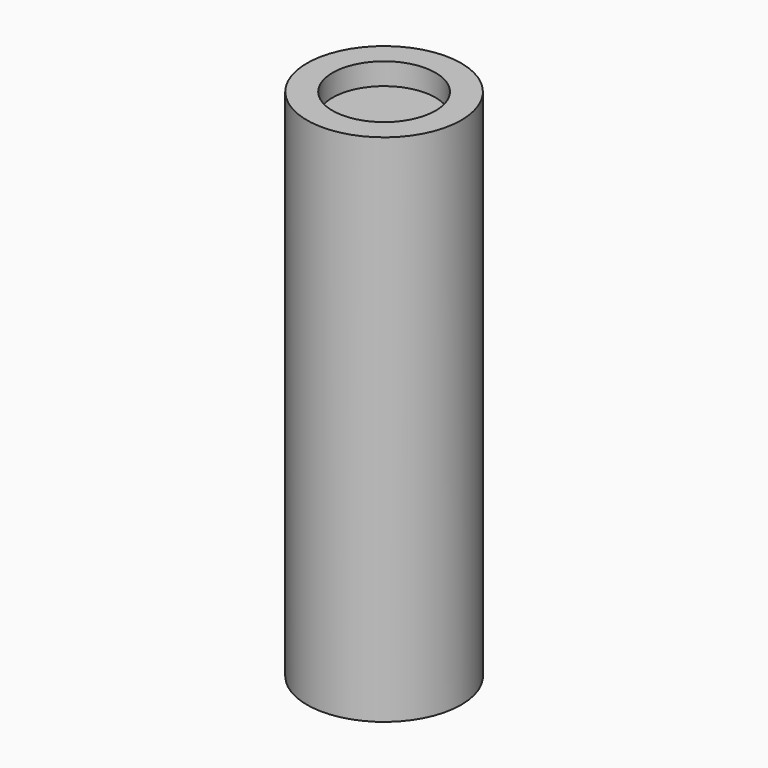
from build123d import *

# Parameters (mm, degrees)
SKETCH151_R     = 6
PAD111_DEPTH    = 40
SKETCH152_R     = 3.65
POCKET_DEPTH    = 10
SKETCH153_R     = 4
POCKET001_DEPTH = 1.7


with BuildPart() as part:
    # Sketch151 → Pad111 (new body)
    with BuildSketch(Plane.XY):
        Circle(SKETCH151_R)
    extrude(amount=PAD111_DEPTH)

    # Sketch152 (on Face2 of Pad111) → Pocket (cut)
    with BuildSketch(Plane(origin=(0, 0, 0), x_dir=(1, 0, 0), z_dir=(0, 0, -1))):
        Circle(SKETCH152_R)
    extrude(amount=-POCKET_DEPTH, mode=Mode.SUBTRACT)

    # Sketch153 (on Face3 of Pocket) → Pocket001 (cut)
    with BuildSketch(Plane.XY.offset(40)):
        Circle(SKETCH153_R)
    extrude(amount=-POCKET001_DEPTH, mode=Mode.SUBTRACT)


solid = part.part
